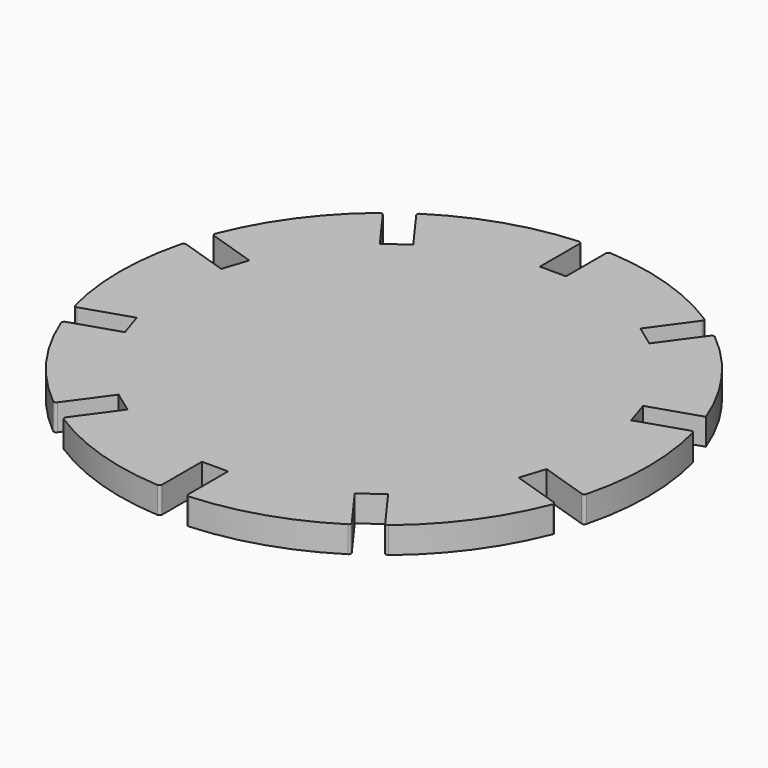
from build123d import *

# Parameters (mm, degrees)
F1_DEPTH = 5


with BuildPart() as f1:
    # F0 (on Top) → F1 (new body)
    with BuildSketch(Plane.XY):
        with BuildLine():
            ThreePointArc((-31.045091, 38.519181), (-31.386265, 38.721261), (-31.767273, 38.611402))
            ThreePointArc((-31.767273, 38.611402), (-40.45085, 29.389263), (-46.538253, 18.280892))
            ThreePointArc((-46.538253, 18.280892), (-46.524997, 17.884584), (-46.227379, 17.622555))
            Line((-46.227379, 17.622555), (-37.277444, 14.714545))
            Line((-37.277444, 14.714545), (-38.807078, 10.006815))
            Line((-38.807078, 10.006815), (-47.757013, 12.914825))
            ThreePointArc((-47.757013, 12.914825), (-48.151808, 12.877774), (-48.395476, 12.564946))
            ThreePointArc((-48.395476, 12.564946), (-50, 0), (-48.395476, -12.564946))
            ThreePointArc((-48.395476, -12.564946), (-48.151808, -12.877774), (-47.757013, -12.914825))
            Line((-47.757013, -12.914825), (-38.807078, -10.006815))
            Line((-38.807078, -10.006815), (-37.277444, -14.714545))
            Line((-37.277444, -14.714545), (-46.227379, -17.622555))
            ThreePointArc((-46.227379, -17.622555), (-46.524997, -17.884584), (-46.538253, -18.280892))
            ThreePointArc((-46.538253, -18.280892), (-40.45085, -29.389263), (-31.767273, -38.611402))
            ThreePointArc((-31.767273, -38.611402), (-31.386265, -38.721261), (-31.045091, -38.519181))
            Line((-31.045091, -38.519181), (-25.513727, -30.905911))
            Line((-25.513727, -30.905911), (-21.509093, -33.815448))
            Line((-21.509093, -33.815448), (-27.040457, -41.428718))
            ThreePointArc((-27.040457, -41.428718), (-27.127218, -41.815639), (-26.904999, -42.144051))
            ThreePointArc((-26.904999, -42.144051), (-15.45085, -47.552826), (-3.005051, -49.909615))
            ThreePointArc((-3.005051, -49.909615), (-2.632236, -49.774542), (-2.475, -49.410519))
            Line((-2.475, -49.410519), (-2.475, -40))
            Line((-2.475, -40), (2.475, -40))
            Line((2.475, -40), (2.475, -49.410519))
            ThreePointArc((2.475, -49.410519), (2.632236, -49.774542), (3.005051, -49.909615))
            ThreePointArc((3.005051, -49.909615), (15.45085, -47.552826), (26.904999, -42.144051))
            ThreePointArc((26.904999, -42.144051), (27.127218, -41.815639), (27.040457, -41.428718))
            Line((27.040457, -41.428718), (21.509093, -33.815448))
            Line((21.509093, -33.815448), (25.513727, -30.905911))
            Line((25.513727, -30.905911), (31.045091, -38.519181))
            ThreePointArc((31.045091, -38.519181), (31.386265, -38.721261), (31.767273, -38.611402))
            ThreePointArc((31.767273, -38.611402), (40.45085, -29.389263), (46.538253, -18.280892))
            ThreePointArc((46.538253, -18.280892), (46.524997, -17.884584), (46.227379, -17.622555))
            Line((46.227379, -17.622555), (37.277444, -14.714545))
            Line((37.277444, -14.714545), (38.807078, -10.006815))
            Line((38.807078, -10.006815), (47.757013, -12.914825))
            ThreePointArc((47.757013, -12.914825), (48.151808, -12.877774), (48.395476, -12.564946))
            ThreePointArc((48.395476, -12.564946), (50, 0), (48.395476, 12.564946))
            ThreePointArc((48.395476, 12.564946), (48.151808, 12.877774), (47.757013, 12.914825))
            Line((47.757013, 12.914825), (38.807078, 10.006815))
            Line((38.807078, 10.006815), (37.277444, 14.714545))
            Line((37.277444, 14.714545), (46.729715, 17.785774))
            ThreePointArc((46.729715, 17.785774), (40.606292, 29.174116), (31.767273, 38.611402))
            ThreePointArc((31.767273, 38.611402), (31.386265, 38.721261), (31.045091, 38.519181))
            Line((31.045091, 38.519181), (25.513727, 30.905911))
            Line((25.513727, 30.905911), (21.509093, 33.815448))
            Line((21.509093, 33.815448), (27.040457, 41.428718))
            ThreePointArc((27.040457, 41.428718), (27.127218, 41.815639), (26.904999, 42.144051))
            ThreePointArc((26.904999, 42.144051), (15.45085, 47.552826), (3.005051, 49.909615))
            ThreePointArc((3.005051, 49.909615), (2.632236, 49.774542), (2.475, 49.410519))
            Line((2.475, 49.410519), (2.475, 40))
            Line((2.475, 40), (-2.475, 40))
            Line((-2.475, 40), (-2.475, 49.410519))
            ThreePointArc((-2.475, 49.410519), (-2.632236, 49.774542), (-3.005051, 49.909615))
            ThreePointArc((-3.005051, 49.909615), (-15.45085, 47.552826), (-26.904999, 42.144051))
            ThreePointArc((-26.904999, 42.144051), (-27.127218, 41.815639), (-27.040457, 41.428718))
            Line((-27.040457, 41.428718), (-21.509093, 33.815448))
            Line((-21.509093, 33.815448), (-25.513727, 30.905911))
            Line((-25.513727, 30.905911), (-31.045091, 38.519181))
        make_face()
    extrude(amount=F1_DEPTH)


solid = f1.part
